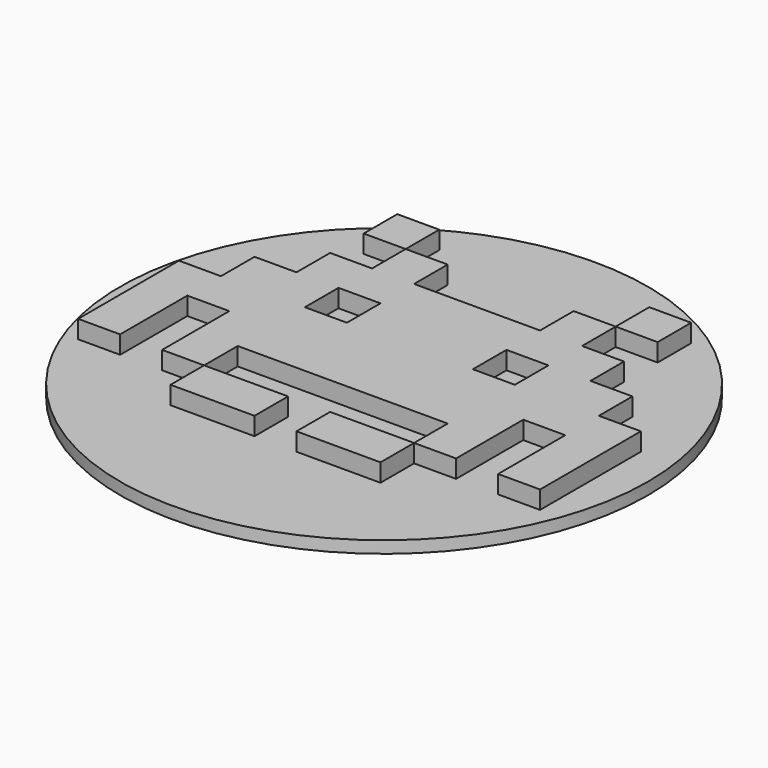
from build123d import *

# Parameters (mm, degrees)
CYLINDER_R     = 2.2
CYLINDER_DEPTH = 0.1
BOX009_W       = 0.35
BOX009_H       = 0.7
BOX009_DEPTH   = 1
BOX010_W       = 1.05
BOX010_H       = 0.35
BOX010_DEPTH   = 1
BOX007_W       = 1.75
BOX007_H       = 0.35
BOX007_DEPTH   = 0.25
BOX001_W       = 0.35
BOX001_H       = 0.35
BOX001_DEPTH   = 1
BOX003_W       = 1.4
BOX003_H       = 0.35
BOX003_DEPTH   = 0.25
BOX008_W       = 0.35
BOX008_H       = 0.35
BOX008_DEPTH   = 0.25
BOX005_W       = 1.75
BOX005_H       = 0.35
BOX005_DEPTH   = 0.25
BOX004_W       = 1.75
BOX004_H       = 0.35
BOX004_DEPTH   = 0.25
BOX002_W       = 1.05
BOX002_H       = 0.35
BOX002_DEPTH   = 0.25
BOX_W          = 0.35
BOX_H          = 0.35
BOX_DEPTH      = 0.25
BOX012_W       = 1.05
BOX012_H       = 0.35
BOX012_DEPTH   = 1
BOX011_W       = 1.75
BOX011_H       = 0.35
BOX011_DEPTH   = 1
BOX006_W       = 1.75
BOX006_H       = 0.35
BOX006_DEPTH   = 0.25
BOX013_W       = 1.4
BOX013_H       = 0.35
BOX013_DEPTH   = 0.25


with BuildPart() as cylinder:
    # Cylinder → Cylinder (new body)
    with BuildSketch(Plane.XY):
        Circle(CYLINDER_R)
    extrude(amount=CYLINDER_DEPTH)


with BuildPart() as cube009:
    # Box009 → Box009 (new body)
    with BuildSketch(Plane(origin=(-1.35, -1.1, 0), x_dir=(1, 0, 0), z_dir=(0, 0, 1))):
        with Locations((0.175, 0.35)):
            Rectangle(BOX009_W, BOX009_H)
    extrude(amount=BOX009_DEPTH)


with BuildPart() as cube010:
    # Box010 → Box010 (new body)
    with BuildSketch(Plane(origin=(-1.7, -1.45, 0), x_dir=(1, 0, 0), z_dir=(0, 0, 1))):
        with Locations((0.525, 0.175)):
            Rectangle(BOX010_W, BOX010_H)
    extrude(amount=BOX010_DEPTH)


with BuildPart() as cut001:
    # Box007 → Box007 (new body)
    with BuildSketch(Plane(origin=(-1.7, -1.45, 0), x_dir=(1, 0, 0), z_dir=(0, 0, 1))):
        with Locations((0.875, 0.175)):
            Rectangle(BOX007_W, BOX007_H)
    extrude(amount=BOX007_DEPTH)

    # Cut001: cut Cube010
    add(cube010.part, mode=Mode.SUBTRACT)


with BuildPart() as cube001:
    # Box001 → Box001 (new body)
    with BuildSketch(Plane(origin=(-0.65, -0.05, 0), x_dir=(1, 0, 0), z_dir=(0, 0, 1))):
        with Locations((0.175, 0.175)):
            Rectangle(BOX001_W, BOX001_H)
    extrude(amount=BOX001_DEPTH)


with BuildPart() as cut:
    # Box003 → Box003 (new body)
    with BuildSketch(Plane(origin=(-1.35, -0.05, 0), x_dir=(1, 0, 0), z_dir=(0, 0, 1))):
        with Locations((0.7, 0.175)):
            Rectangle(BOX003_W, BOX003_H)
    extrude(amount=BOX003_DEPTH)

    # Cut: cut Cube001
    add(cube001.part, mode=Mode.SUBTRACT)


with BuildPart() as cube008:
    # Box008 → Box008 (new body)
    with BuildSketch(Plane(origin=(-0.65, 0.65, 0), x_dir=(1, 0, 0), z_dir=(0, 0, 1))):
        with Locations((0.175, 0.175)):
            Rectangle(BOX008_W, BOX008_H)
    extrude(amount=BOX008_DEPTH)


with BuildPart() as cube005:
    # Box005 → Box005 (new body)
    with BuildSketch(Plane(origin=(-1.7, -0.75, 0), x_dir=(1, 0, 0), z_dir=(0, 0, 1))):
        with Locations((0.875, 0.175)):
            Rectangle(BOX005_W, BOX005_H)
    extrude(amount=BOX005_DEPTH)


with BuildPart() as cube004:
    # Box004 → Box004 (new body)
    with BuildSketch(Plane(origin=(-1.7, -0.4, 0), x_dir=(1, 0, 0), z_dir=(0, 0, 1))):
        with Locations((0.875, 0.175)):
            Rectangle(BOX004_W, BOX004_H)
    extrude(amount=BOX004_DEPTH)


with BuildPart() as cube002:
    # Box002 → Box002 (new body)
    with BuildSketch(Plane(origin=(-1, 0.3, 0), x_dir=(1, 0, 0), z_dir=(0, 0, 1))):
        with Locations((0.525, 0.175)):
            Rectangle(BOX002_W, BOX002_H)
    extrude(amount=BOX002_DEPTH)


with BuildPart() as cube:
    # Box → Box (new body)
    with BuildSketch(Plane(origin=(-1, 1, 0), x_dir=(1, 0, 0), z_dir=(0, 0, 1))):
        with Locations((0.175, 0.175)):
            Rectangle(BOX_W, BOX_H)
    extrude(amount=BOX_DEPTH)


with BuildPart() as cube012:
    # Box012 → Box012 (new body)
    with BuildSketch(Plane(origin=(-1.7, -1.45, 0), x_dir=(1, 0, 0), z_dir=(0, 0, 1))):
        with Locations((0.525, 0.175)):
            Rectangle(BOX012_W, BOX012_H)
    extrude(amount=BOX012_DEPTH)


with BuildPart() as cut002:
    # Box011 → Box011 (new body)
    with BuildSketch(Plane(origin=(-1.7, -1.45, 0), x_dir=(1, 0, 0), z_dir=(0, 0, 1))):
        with Locations((0.875, 0.175)):
            Rectangle(BOX011_W, BOX011_H)
    extrude(amount=BOX011_DEPTH)

    # Cut002: cut Cube012
    add(cube012.part, mode=Mode.SUBTRACT)


with BuildPart() as cut002_1:
    # Cut002 placement: moved
    add(cut002.part.moved(Location((0, 0.35, 0))))


with BuildPart() as left_side:
    # Box006 → Box006 (new body)
    with BuildSketch(Plane(origin=(-1.7, -1.1, 0), x_dir=(1, 0, 0), z_dir=(0, 0, 1))):
        with Locations((0.875, 0.175)):
            Rectangle(BOX006_W, BOX006_H)
    extrude(amount=BOX006_DEPTH)

    # Cut003: cut Cut002
    add(cut002_1.part, mode=Mode.SUBTRACT)

    # Fusion: union Cut001, Cut, Cube008, Cube005, Cube004, Cube002, Cube
    add(cut001.part)
    add(cut.part)
    add(cube008.part)
    add(cube005.part)
    add(cube004.part)
    add(cube002.part)
    add(cube.part)

    # Cut004: cut Cube009
    add(cube009.part, mode=Mode.SUBTRACT)


with BuildPart() as left_side_mirrored:
    # Mirror: instance of left_side
    add(left_side.part.mirror(Plane(origin=(0.05, 0.65, 0), x_dir=(0, 1, 0), z_dir=(-1, 0, 0))))


with BuildPart() as left_side_mirrored_1:
    # Mirror placement: moved
    add(left_side_mirrored.part.moved(Location((0.35, 0, 0))))


with BuildPart() as cube013:
    # Box013 → Box013 (new body)
    with BuildSketch(Plane(origin=(0.4, -0.75, 0), x_dir=(0, 1, 0), z_dir=(0, 0, 1))):
        with Locations((0.7, 0.175)):
            Rectangle(BOX013_W, BOX013_H)
    extrude(amount=BOX013_DEPTH)


with BuildPart() as fusion001:
    # Fusion001 base: copy of left_side
    add(left_side.part)

    # Fusion001: union left_side (mirrored), Cube013
    add(left_side_mirrored_1.part)
    add(cube013.part)


with BuildPart() as fusion001_1:
    # Fusion001 placement: moved
    add(fusion001.part.moved(Location((-0.25, 0.35, 0))))


solid = Compound([cylinder.part, fusion001_1.part])
